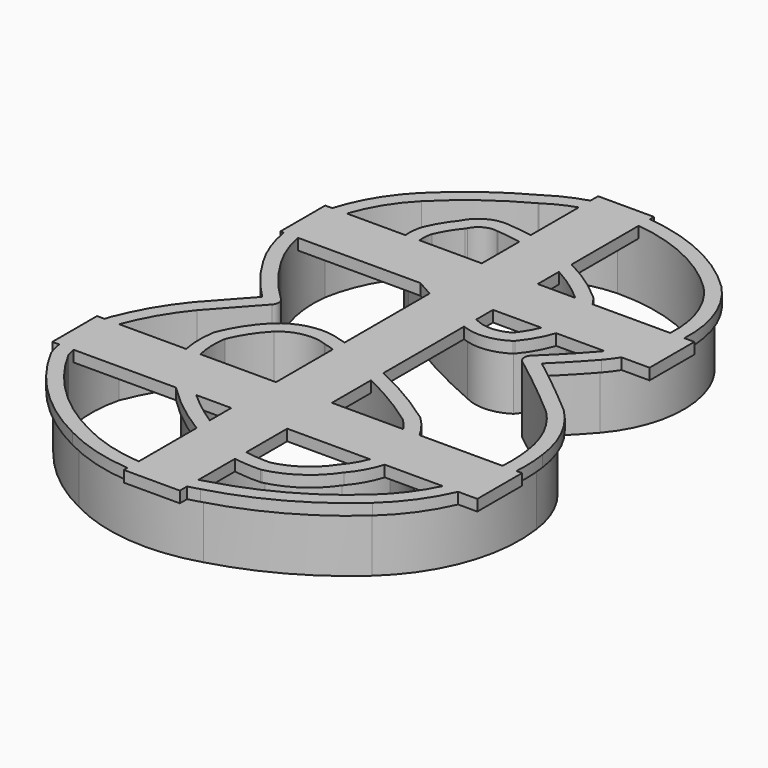
from build123d import *

# Parameters (mm, degrees)
EXTRUDE001_DEPTH = 2
BOX_W            = 10
BOX_H            = 106
BOX_DEPTH        = 2
BOX001_W         = 10
BOX001_H         = 76
BOX001_DEPTH     = 2
BOX002_W         = 10
BOX002_H         = 66
BOX002_DEPTH     = 2
EXTRUDE_DEPTH    = 12


with BuildPart() as reinforcing:
    # Offset2D001 → Extrude001 (new body)
    with BuildSketch(Plane(origin=(-0.422727115, -0.8328901531, 0), x_dir=(0, 1, 0), z_dir=(0, 0, 1))):
        with BuildLine():
            ThreePointArc((43.212010927, -24.9747071246), (50.6054611723, -13.6802319113), (53.0755523698, -0.4089498953))
            ThreePointArc((53.0755523698, -0.4089498953), (53.0754214204, -0.4014746189), (53.0752345867, -0.3940005304))
            ThreePointArc((53.0752345867, -0.3940005304), (51.9710451198, 6.0942058986), (49.1187206618, 12.0255044267))
            ThreePointArc((49.1187206618, 12.0255044267), (44.5689548846, 19.2239804345), (39.0126627613, 25.6773550018))
            ThreePointArc((39.0126627613, 25.6773550018), (39.0105252693, 25.6794901549), (39.0083813363, 25.6816188404))
            ThreePointArc((39.0083813363, 25.6816188404), (32.305049998, 30.5291606942), (24.4464704973, 33.1129643411))
            ThreePointArc((24.4464704973, 33.1129643411), (24.4229747802, 33.1165525778), (24.39940042, 33.119581391))
            ThreePointArc((24.39940042, 33.119581391), (16.5735198955, 32.7324171985), (9.2972615626, 29.8254657424))
            ThreePointArc((9.2972615626, 29.8254657424), (4.8122439346, 26.7988134184), (0.77833707, 23.192762556))
            ThreePointArc((0.77833707, 23.192762556), (-2.8350728711, 26.439400667), (-6.4447680979, 29.6901683911))
            ThreePointArc((-6.4447680979, 29.6901683911), (-6.4629546714, 29.7061703815), (-6.4815235169, 29.7217271526))
            ThreePointArc((-6.4815235169, 29.7217271526), (-11.6629188346, 33.3021414409), (-17.3516991783, 36.0047331812))
            ThreePointArc((-17.3516991783, 36.0047331812), (-17.4035857912, 36.0228222073), (-17.4563876753, 36.0380338635))
            ThreePointArc((-17.4563876753, 36.0380338635), (-24.0828338913, 36.8008857374), (-30.6655187968, 35.7238565501))
            ThreePointArc((-30.6655187968, 35.7238565501), (-30.7520322125, 35.6926111527), (-30.8353086402, 35.6535486061))
            ThreePointArc((-30.8353086402, 35.6535486061), (-40.6734161534, 28.2989329515), (-47.7522246456, 18.2605465673))
            ThreePointArc((-47.7522246456, 18.2605465673), (-51.3133290161, 6.1548367538), (-49.9976091975, -6.3950061051))
            ThreePointArc((-49.9976091975, -6.3950061051), (-45.3709676217, -17.7622790045), (-38.2339166722, -27.7464268992))
            ThreePointArc((-38.2339166722, -27.7464268992), (-26.327908002, -35.7216903987), (-12.0725092143, -37.1850685945))
            ThreePointArc((-12.0725092143, -37.1850685945), (-5.437579342, -35.2114531507), (0.2051014613, -31.2017641749))
            ThreePointArc((0.2051014613, -31.2017641749), (0.231292998, -31.1747444123), (0.2564493996, -31.146758351))
            ThreePointArc((0.2564493996, -31.146758351), (4.9315665009, -25.5759386486), (9.4353596844, -19.8657198238))
            ThreePointArc((9.4353596844, -19.8657198238), (12.4150377748, -22.828031529), (15.5025919221, -25.6777300303))
            ThreePointArc((15.5025919221, -25.6777300303), (15.510105026, -25.6843434256), (15.5176839474, -25.6908812904))
            ThreePointArc((15.5176839474, -25.6908812904), (29.484002965, -30.6456655557), (43.1857861889, -25.0003940384))
            ThreePointArc((43.1857861889, -25.0003940384), (43.1990164357, -24.9876709273), (43.212010927, -24.9747071246))
        make_face()
        with BuildLine():
            ThreePointArc((52.0756472802, -0.422727115), (49.6774703477, -13.3076288659), (42.4992731023, -24.2732765912))
            ThreePointArc((42.4992731023, -24.2732765912), (29.4590546572, -29.6459768132), (16.1670730304, -24.9304249677))
            ThreePointArc((16.1670730304, -24.9304249677), (12.6874090271, -21.70206547), (9.3473977624, -18.3294268332))
            ThreePointArc((9.3473977624, -18.3294268332), (4.5236498859, -24.4916933303), (-0.4997014846, -30.4923610402))
            ThreePointArc((-0.4997014846, -30.4923610402), (-5.8794408439, -34.3143595299), (-12.2053114166, -36.1938886007))
            ThreePointArc((-12.2053114166, -36.1938886007), (-25.9847903368, -34.7823892396), (-37.493525028, -27.0742509712))
            ThreePointArc((-37.493525028, -27.0742509712), (-44.4986408634, -17.2732997045), (-49.0377404252, -6.1141389489))
            ThreePointArc((-49.0377404252, -6.1141389489), (-50.3175786064, 6.06273253), (-46.8601947882, 17.8083990465))
            ThreePointArc((-46.8601947882, 17.8083990465), (-39.9608457895, 27.5973047463), (-30.3694477685, 34.7686906241))
            ThreePointArc((-30.3694477685, 34.7686906241), (-24.0590557579, 35.8011684772), (-17.7067126242, 35.0698719866))
            ThreePointArc((-17.7067126242, 35.0698719866), (-12.1633433256, 32.4363612558), (-7.1143897727, 28.9474660195))
            ThreePointArc((-7.1143897727, 28.9474660195), (-3.1429969905, 25.371376591), (0.8328901531, 21.8002846498))
            ThreePointArc((0.8328901531, 21.8002846498), (5.0541866174, 25.7161629463), (9.8076558757, 28.9654669766))
            ThreePointArc((9.8076558757, 28.9654669766), (16.781844745, 31.7543446986), (24.283764917, 32.1262896763))
            ThreePointArc((24.283764917, 32.1262896763), (31.8504923386, 29.6384433797), (38.3048752268, 24.97092963))
            ThreePointArc((38.3048752268, 24.97092963), (43.7799006378, 18.6091523834), (48.2596333825, 11.5112577996))
            ThreePointArc((48.2596333825, 11.5112577996), (51.0108173205, 5.8138798199), (52.0756472802, -0.422727115))
        make_face(mode=Mode.SUBTRACT)
        with BuildLine():
            ThreePointArc((36.0950747931, 15.9789936221), (33.8038233113, 17.589593807), (31.3099088529, 18.8640572169))
            ThreePointArc((31.3099088529, 18.8640572169), (31.2662250457, 18.8814438846), (31.2217722836, 18.8967580337))
            ThreePointArc((31.2217722836, 18.8967580337), (27.8320347852, 19.2342829828), (24.5971623047, 18.1666484787))
            ThreePointArc((24.5971623047, 18.1666484787), (24.4625576079, 18.07257054), (24.3451655521, 17.9577307029))
            ThreePointArc((24.3451655521, 17.9577307029), (23.203051056, 16.6317814874), (22.069269305, 15.2987001749))
            ThreePointArc((22.069269305, 15.2987001749), (22.0356537613, 15.2566806626), (22.0043471883, 15.2129137495))
            ThreePointArc((22.0043471883, 15.2129137495), (16.4365268946, 6.0678200261), (11.754078404, -3.5606813198))
            ThreePointArc((11.754078404, -3.5606813198), (10.7882924932, -8.0843276699), (12.2422440433, -12.4754714408))
            ThreePointArc((12.2422440433, -12.4754714408), (12.330381247, -12.5897388453), (12.4340475934, -12.6901305534))
            ThreePointArc((12.4340475934, -12.6901305534), (16.1241987199, -15.0426571802), (20.2940148541, -16.3709004836))
            ThreePointArc((20.2940148541, -16.3709004836), (20.3887422612, -16.3833810963), (20.4842283945, -16.3867642455))
            ThreePointArc((20.4842283945, -16.3867642455), (25.2620268465, -15.4968216913), (29.4608456546, -13.0495218702))
            ThreePointArc((29.4608456546, -13.0495218702), (29.5109095008, -13.0044302067), (29.5578232989, -12.956069661))
            ThreePointArc((29.5578232989, -12.956069661), (36.3010924845, -2.4709029574), (39.2830423763, 9.633574518))
            ThreePointArc((39.2830423763, 9.633574518), (38.7252515994, 13.3268721804), (36.0950747931, 15.9789936221))
        make_face()
        with BuildLine():
            ThreePointArc((30.9183715383, 17.943894986), (33.333845399, 16.7051673228), (35.5479496406, 15.1345933505))
            ThreePointArc((35.5479496406, 15.1345933505), (37.8184581245, 12.9040781093), (38.289488659, 9.7562951987))
            ThreePointArc((38.289488659, 9.7562951987), (35.3917589805, -2.0541717285), (28.8170123149, -12.2843561165))
            ThreePointArc((28.8170123149, -12.2843561165), (24.9135586095, -14.5595011017), (20.4718534721, -15.3868408178))
            ThreePointArc((20.4718534721, -15.3868408178), (16.5482934703, -14.1370393565), (13.0760709804, -11.9234455003))
            ThreePointArc((13.0760709804, -11.9234455003), (11.7858860541, -8.0126855473), (12.658812736, -3.988183148))
            ThreePointArc((12.658812736, -3.988183148), (17.3056168303, 5.5728370065), (22.8330482505, 14.6532222725))
            ThreePointArc((22.8330482505, 14.6532222725), (23.9627695033, 15.9815293203), (25.1007936586, 17.3027298139))
            ThreePointArc((25.1007936586, 17.3027298139), (27.9415831762, 18.2403015192), (30.9183715383, 17.943894986))
        make_face(mode=Mode.SUBTRACT)
        with BuildLine():
            ThreePointArc((-4.6187505565, 17.1358390879), (-7.9218237341, 19.7626928778), (-11.6736408639, 21.6951838802))
            ThreePointArc((-11.6736408639, 21.6951838802), (-11.772654727, 21.7285753414), (-11.8746124373, 21.7514524061))
            ThreePointArc((-11.8746124373, 21.7514524061), (-17.8328479426, 21.7120148909), (-23.416033179, 19.631109254))
            ThreePointArc((-23.416033179, 19.631109254), (-23.4715139821, 19.5959631221), (-23.5245681093, 19.5572509832))
            ThreePointArc((-23.5245681093, 19.5572509832), (-31.762851795, 11.4898599847), (-38.0089201274, 1.7976597189))
            ThreePointArc((-38.0089201274, 1.7976597189), (-38.0191388791, 1.77644992), (-38.0288554885, 1.7550054347))
            ThreePointArc((-38.0288554885, 1.7550054347), (-39.7031361619, -3.631485945), (-40.1357140193, -9.2555753427))
            ThreePointArc((-40.1357140193, -9.2555753427), (-40.1279532575, -9.3493292314), (-40.1114167446, -9.4419389762))
            ThreePointArc((-40.1114167446, -9.4419389762), (-37.7604089495, -14.7873409923), (-33.5894737639, -18.8743765982))
            ThreePointArc((-33.5894737639, -18.8743765982), (-30.2571838104, -21.0470497052), (-26.4721626461, -22.2710920045))
            ThreePointArc((-26.4721626461, -22.2710920045), (-26.3713541036, -22.2842120539), (-26.2697344204, -22.2870294872))
            ThreePointArc((-26.2697344204, -22.2870294872), (-19.5924361278, -20.8033767192), (-13.9845905829, -16.8867957652))
            ThreePointArc((-13.9845905829, -16.8867957652), (-13.9380102168, -16.8348218096), (-13.8951684917, -16.7797254472))
            ThreePointArc((-13.8951684917, -16.7797254472), (-7.1766645814, -5.5353488961), (-2.5169653639, 6.7064443556))
            ThreePointArc((-2.5169653639, 6.7064443556), (-2.101020975, 12.1852688898), (-4.5754480801, 17.0911570369))
            ThreePointArc((-4.5754480801, 17.0911570369), (-4.5967517078, 17.1138349403), (-4.6187505565, 17.1358390879))
        make_face()
        with BuildLine():
            ThreePointArc((-12.0422690361, 20.7656069492), (-8.4646063293, 18.9228196407), (-5.3148574699, 16.4179009533))
            ThreePointArc((-5.3148574699, 16.4179009533), (-3.078577398, 11.9738046198), (-3.4691551647, 7.0141282402))
            ThreePointArc((-3.4691551647, 7.0141282402), (-8.0687053081, -5.0830248539), (-14.7055371416, -16.1938051018))
            ThreePointArc((-14.7055371416, -16.1938051018), (-19.9948482298, -19.8879180909), (-26.2928654659, -21.2872970456))
            ThreePointArc((-26.2928654659, -21.2872970456), (-29.8548373249, -20.1309839396), (-32.9850120852, -18.0750876645))
            ThreePointArc((-32.9850120852, -18.0750876645), (-36.9199550727, -14.2444814687), (-39.1363453242, -9.22004773))
            ThreePointArc((-39.1363453242, -9.22004773), (-38.7209554301, -3.8194247917), (-37.113200295, 1.3530408012))
            ThreePointArc((-37.113200295, 1.3530408012), (-30.9879069391, 10.8578311323), (-22.9089200247, 18.7692297678))
            ThreePointArc((-22.9089200247, 18.7692297678), (-17.6521559983, 20.7284751504), (-12.0422690361, 20.7656069492))
        make_face(mode=Mode.SUBTRACT)
    extrude(amount=-EXTRUDE001_DEPTH)


with BuildPart() as box:
    # Box → Box (new body)
    with BuildSketch(Plane(origin=(-6, -53, -2), x_dir=(1, 0, 0), z_dir=(0, 0, 1))):
        with Locations((5, 53)):
            Rectangle(BOX_W, BOX_H)
    extrude(amount=BOX_DEPTH)


with BuildPart() as box001:
    # Box001 → Box001 (new body)
    with BuildSketch(Plane(origin=(38, -29, -2), x_dir=(0, 1, 0), z_dir=(0, 0, 1))):
        with Locations((5, 38)):
            Rectangle(BOX001_W, BOX001_H)
    extrude(amount=BOX001_DEPTH)


with BuildPart() as box002:
    # Box002 → Box002 (new body)
    with BuildSketch(Plane(origin=(32, 17, -2), x_dir=(0, 1, 0), z_dir=(0, 0, 1))):
        with Locations((5, 33)):
            Rectangle(BOX002_W, BOX002_H)
    extrude(amount=BOX002_DEPTH)


with BuildPart() as cutter:
    # Offset2D → Extrude (new body)
    with BuildSketch(Plane(origin=(-0.4381366875, -0.8339200197, 0), x_dir=(0, 1, 0), z_dir=(0, 0, 1))):
        with BuildLine():
            ThreePointArc((42.5003029689, -24.2886861636), (49.6785002142, -13.3230384383), (52.0766771468, -0.4381366875))
            ThreePointArc((52.0766771468, -0.4381366875), (51.0118471871, 5.7984702475), (48.2606632491, 11.4958482271))
            ThreePointArc((48.2606632491, 11.4958482271), (43.7809305044, 18.593742811), (38.3059050933, 24.9555200576))
            ThreePointArc((38.3059050933, 24.9555200576), (31.8515222052, 29.6230338072), (24.2847947835, 32.1108801039))
            ThreePointArc((24.2847947835, 32.1108801039), (16.7828746116, 31.7389351262), (9.8086857423, 28.9500574042))
            ThreePointArc((9.8086857423, 28.9500574042), (5.055216484, 25.7007533738), (0.8339200197, 21.7848750774))
            ThreePointArc((0.8339200197, 21.7848750774), (-3.141967124, 25.3559670185), (-7.1133599061, 28.9320564471))
            ThreePointArc((-7.1133599061, 28.9320564471), (-12.162313459, 32.4209516834), (-17.7056827576, 35.0544624141))
            ThreePointArc((-17.7056827576, 35.0544624141), (-24.0580258913, 35.7857589047), (-30.368417902, 34.7532810516))
            ThreePointArc((-30.368417902, 34.7532810516), (-39.9598159229, 27.5818951738), (-46.8591649216, 17.792989474))
            ThreePointArc((-46.8591649216, 17.792989474), (-50.3165487398, 6.0473229575), (-49.0367105587, -6.1295485214))
            ThreePointArc((-49.0367105587, -6.1295485214), (-44.4976109969, -17.2887092769), (-37.4924951614, -27.0896605436))
            ThreePointArc((-37.4924951614, -27.0896605436), (-25.9837604702, -34.7977988121), (-12.20428155, -36.2092981732))
            ThreePointArc((-12.20428155, -36.2092981732), (-5.8784109774, -34.3297691024), (-0.498671618, -30.5077706127))
            ThreePointArc((-0.498671618, -30.5077706127), (4.5246797525, -24.5071029027), (9.348427629, -18.3448364057))
            ThreePointArc((9.348427629, -18.3448364057), (12.6884388936, -21.7174750425), (16.168102897, -24.9458345401))
            ThreePointArc((16.168102897, -24.9458345401), (29.4600845237, -29.6613863856), (42.5003029689, -24.2886861636))
        make_face()
        with BuildLine():
            ThreePointArc((50.5769728994, -0.4700797931), (48.2895844396, -12.7564838319), (41.4506626659, -23.2167428699))
            ThreePointArc((41.4506626659, -23.2167428699), (29.4163935503, -28.1620086294), (17.1534206875, -23.8147355597))
            ThreePointArc((17.1534206875, -23.8147355597), (13.7261955773, -20.6343683633), (10.4363175159, -17.3121236702))
            ThreePointArc((10.4363175159, -17.3121236702), (9.2647437349, -16.8471725562), (8.1522606266, -17.439748287))
            ThreePointArc((8.1522606266, -17.439748287), (3.3769382466, -23.5409141723), (-1.5952882111, -29.4827062459))
            ThreePointArc((-1.5952882111, -29.4827062459), (-6.56019861, -32.9933571705), (-12.3903494272, -34.7208833301))
            ThreePointArc((-12.3903494272, -34.7208833301), (-12.4034312764, -34.7225771548), (-12.4164977243, -34.7243859551))
            ThreePointArc((-12.4164977243, -34.7243859551), (-25.4748968885, -33.3867503171), (-36.3813798073, -26.0819787139))
            ThreePointArc((-36.3813798073, -26.0819787139), (-36.3819058586, -26.0813989702), (-36.3824322123, -26.0808195011))
            ThreePointArc((-36.3824322123, -26.0808195011), (-43.1837149529, -16.5650538439), (-47.5907369398, -5.7305995353))
            ThreePointArc((-47.5907369398, -5.7305995353), (-47.5970957656, -5.7082300578), (-47.603800629, -5.6859618519))
            ThreePointArc((-47.603800629, -5.6859618519), (-48.8227245326, 5.9113478204), (-45.5298959218, 17.0979758582))
            ThreePointArc((-45.5298959218, 17.0979758582), (-45.5212351226, 17.1147978692), (-45.5127871966, 17.1317277848))
            ThreePointArc((-45.5127871966, 17.1317277848), (-38.9329064138, 26.486216484), (-29.7928310885, 33.3608301451))
            ThreePointArc((-29.7928310885, 33.3608301451), (-23.9945934928, 34.2868256079), (-18.1605711445, 33.6225891655))
            ThreePointArc((-18.1605711445, 33.6225891655), (-12.8925648003, 31.110489818), (-8.0905258157, 27.7934194897))
            ThreePointArc((-8.0905258157, 27.7934194897), (-4.1313490191, 24.2283765346), (-0.1677071175, 20.6682985784))
            ThreePointArc((-0.1677071175, 20.6682985784), (0.9020221457, 20.2864218414), (1.9327016335, 20.7637585487))
            ThreePointArc((1.9327016335, 20.7637585487), (5.9910933945, 24.5285185815), (10.5611207871, 27.6524282186))
            ThreePointArc((10.5611207871, 27.6524282186), (10.5742963635, 27.6601580373), (10.587392539, 27.6680216306))
            ThreePointArc((10.587392539, 27.6680216306), (17.0854755802, 30.2696592777), (24.0759916402, 30.6250279217))
            ThreePointArc((24.0759916402, 30.6250279217), (31.1835969382, 28.2798529471), (37.2474513848, 23.8926479162))
            ThreePointArc((37.2474513848, 23.8926479162), (42.5762948187, 17.6999541193), (46.9365906172, 10.7909853572))
            ThreePointArc((46.9365906172, 10.7909853572), (46.9738795436, 10.7250125149), (47.0144528453, 10.6610071468))
            ThreePointArc((47.0144528453, 10.6610071468), (49.5814126725, 5.3469280046), (50.5769728994, -0.4700797931))
        make_face(mode=Mode.SUBTRACT)
        with BuildLine():
            ThreePointArc((35.5489795072, 15.1191837781), (33.3348752655, 16.6897577503), (30.9194014048, 17.9284854135))
            ThreePointArc((30.9194014048, 17.9284854135), (27.9426130428, 18.2248919468), (25.1018235252, 17.2873202415))
            ThreePointArc((25.1018235252, 17.2873202415), (23.9637993699, 15.9661197479), (22.8340781171, 14.6378127001))
            ThreePointArc((22.8340781171, 14.6378127001), (17.3066466969, 5.557427434), (12.6598426025, -4.0035927204))
            ThreePointArc((12.6598426025, -4.0035927204), (11.7869159207, -8.0280951198), (13.0771008469, -11.9388550728))
            ThreePointArc((13.0771008469, -11.9388550728), (16.5493233369, -14.1524489289), (20.4728833386, -15.4022503902))
            ThreePointArc((20.4728833386, -15.4022503902), (24.9145884761, -14.5749106741), (28.8180421815, -12.2997656889))
            ThreePointArc((28.8180421815, -12.2997656889), (35.392788847, -2.069581301), (38.2905185256, 9.7408856262))
            ThreePointArc((38.2905185256, 9.7408856262), (37.819487991, 12.8886685368), (35.5489795072, 15.1191837781))
        make_face()
        with BuildLine():
            ThreePointArc((30.3994472138, 16.5194164733), (32.588010369, 15.3883547621), (34.5958747133, 13.9609129756))
            ThreePointArc((34.5958747133, 13.9609129756), (34.7381615312, 13.857211429), (34.8916194565, 13.7708968042))
            ThreePointArc((34.8916194565, 13.7708968042), (36.4830947411, 12.2074541201), (36.8132557863, 10.0010678682))
            ThreePointArc((36.8132557863, 10.0010678682), (36.802187458, 9.9276224284), (36.7947683459, 9.8537191316))
            ThreePointArc((36.7947683459, 9.8537191316), (34.035022807, -1.4298550153), (27.7760740093, -11.2155997962))
            ThreePointArc((27.7760740093, -11.2155997962), (24.4124331176, -13.1612691256), (20.5974102906, -13.8997202188))
            ThreePointArc((20.5974102906, -13.8997202188), (17.221771594, -12.8109627095), (14.213600766, -10.9318039102))
            ThreePointArc((14.213600766, -10.9318039102), (13.2801604779, -7.8432500459), (13.9905266932, -4.6958931256))
            ThreePointArc((13.9905266932, -4.6958931256), (14.0153957462, -4.645835412), (14.0383825416, -4.5948859103))
            ThreePointArc((14.0383825416, -4.5948859103), (18.6039951031, 4.8034148863), (24.0320181735, 13.7314293056))
            ThreePointArc((24.0320181735, 13.7314293056), (25.0440479319, 14.9214015268), (26.0627790545, 16.1056417976))
            ThreePointArc((26.0627790545, 16.1056417976), (28.1900912931, 16.742468719), (30.3994472138, 16.5194164733))
        make_face(mode=Mode.SUBTRACT)
        with BuildLine():
            ThreePointArc((-5.3138276033, 16.4024913808), (-8.4635764627, 18.9074100683), (-12.0412391695, 20.7501973767))
            ThreePointArc((-12.0412391695, 20.7501973767), (-17.6511261317, 20.7130655779), (-22.9078901582, 18.7538201953))
            ThreePointArc((-22.9078901582, 18.7538201953), (-30.9868770725, 10.8424215598), (-37.1121704284, 1.3376312288))
            ThreePointArc((-37.1121704284, 1.3376312288), (-38.7199255635, -3.8348343642), (-39.1353154577, -9.2354573024))
            ThreePointArc((-39.1353154577, -9.2354573024), (-36.9189252061, -14.2598910411), (-32.9839822187, -18.090497237))
            ThreePointArc((-32.9839822187, -18.090497237), (-29.8538074583, -20.146393512), (-26.2918355993, -21.302706618))
            ThreePointArc((-26.2918355993, -21.302706618), (-19.9938183633, -19.9033276634), (-14.704507275, -16.2092146743))
            ThreePointArc((-14.704507275, -16.2092146743), (-8.0676754415, -5.0984344263), (-3.4681252981, 6.9987186678))
            ThreePointArc((-3.4681252981, 6.9987186678), (-3.0775475314, 11.9583950473), (-5.3138276033, 16.4024913808))
        make_face()
        with BuildLine():
            ThreePointArc((-12.4472465768, 19.296856207), (-9.2314094331, 17.6175562371), (-6.3923999321, 15.3588659138))
            ThreePointArc((-6.3923999321, 15.3588659138), (-4.5451142955, 11.6471621918), (-4.8766766242, 7.5144542218))
            ThreePointArc((-4.8766766242, 7.5144542218), (-4.8950700289, 7.4611348603), (-4.9114458786, 7.4071616893))
            ThreePointArc((-4.9114458786, 7.4071616893), (-9.3944990122, -4.3966851542), (-15.8575233795, -15.2437069451))
            ThreePointArc((-15.8575233795, -15.2437069451), (-20.5741385756, -18.5198751084), (-26.1727255721, -19.7987654023))
            ThreePointArc((-26.1727255721, -19.7987654023), (-29.273344263, -18.7609083502), (-32.0008247355, -16.95762418))
            ThreePointArc((-32.0008247355, -16.95762418), (-32.0791711553, -16.8941206493), (-32.161607667, -16.8360251979))
            ThreePointArc((-32.161607667, -16.8360251979), (-35.6469031447, -13.4614985541), (-37.6408997549, -9.0389775361))
            ThreePointArc((-37.6408997549, -9.0389775361), (-37.236419591, -4.0635982872), (-35.7527403797, 0.7026055346))
            ThreePointArc((-35.7527403797, 0.7026055346), (-29.8449091926, 9.8692879644), (-22.0634405274, 17.5099215452))
            ThreePointArc((-22.0634405274, 17.5099215452), (-17.4093843999, 19.2323428946), (-12.4472465768, 19.296856207))
        make_face(mode=Mode.SUBTRACT)
    extrude(amount=-EXTRUDE_DEPTH)

    # Fusion: union Box, Box001, Box002
    add(box.part)
    add(box001.part)
    add(box002.part)

    # Fusion001: union Reinforcing
    add(reinforcing.part)


solid = cutter.part
